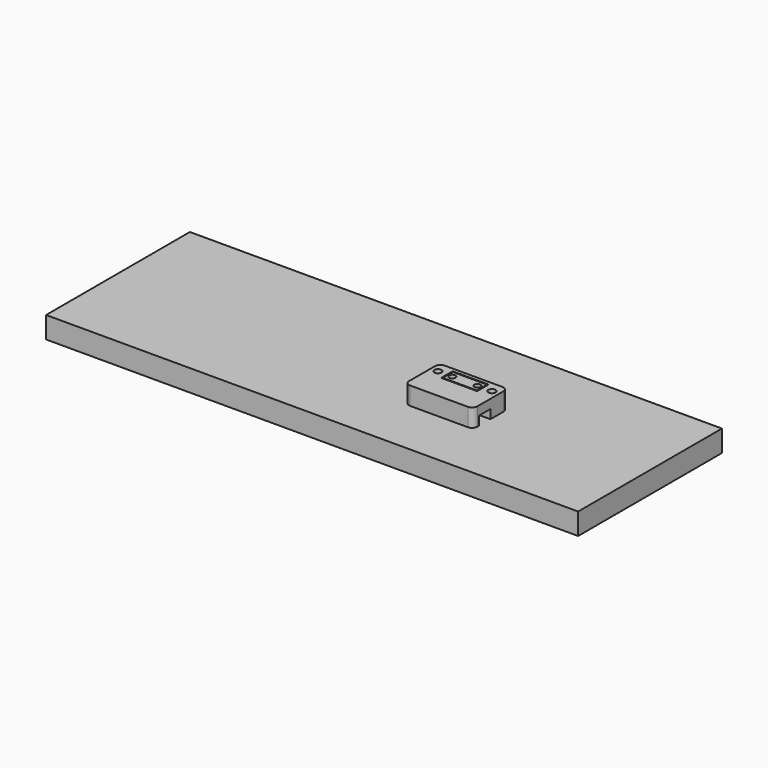
from build123d import *

# Parameters (mm, degrees)
F0_W     = 296
F0_H     = 100
F0_R     = 1.5
F1_DEPTH = 12
F2_R     = 2
F2_R_2   = 1.75
F3_DEPTH = 5
F4_R     = 2
F4_W     = 20
F4_H     = 8
F5_DEPTH = 5
F7_START = 1
F6_W     = 19
F6_H     = 7
F6_R     = 1.75
F7_DEPTH = 4
F8_W     = 7
F8_H     = 1.5
F9_DEPTH = 3


with BuildPart() as f1:
    # F0 (on Top) → F1 (new body)
    with BuildSketch(Plane.XY):
        Rectangle(F0_W, F0_H)
        with Locations((30, 0)):
            Circle(F0_R, mode=Mode.SUBTRACT)
        with Locations((60, 0)):
            Circle(F0_R, mode=Mode.SUBTRACT)
    extrude(amount=F1_DEPTH)


with BuildPart() as f3:
    # F2 (on face) → F3 (new body)
    with BuildSketch(Plane.XY.offset(12)):
        with BuildLine():
            Line((41, 6), (29, 6))
            ThreePointArc((29, 6), (26.8786796564, 5.1213203436), (26, 3))
            Line((26, 3), (26, -6))
            Line((26, -6), (41, -6))
            Line((41, -6), (41, 6))
        make_face()
        with Locations((30, 0)):
            Circle(F2_R, mode=Mode.SUBTRACT)
        with Locations((38, 0)):
            Circle(F2_R_2, mode=Mode.SUBTRACT)
    extrude(amount=F3_DEPTH)



with BuildPart() as f3b:
    # F2 (on face) → F3, piece 2 (new body)
    with BuildSketch(Plane.XY.offset(12)):
        with BuildLine():
            ThreePointArc((26, -15), (26.8786796564, -17.1213203436), (29, -18))
            Line((29, -18), (61, -18))
            ThreePointArc((61, -18), (63.1213203436, -17.1213203436), (64, -15))
            Line((64, -15), (64, -14))
            Line((64, -14), (26, -14))
            Line((26, -14), (26, -15))
        make_face()
    extrude(amount=F3_DEPTH)


with BuildPart() as f3c:
    # F2 (on face) → F3, piece 3 (new body)
    with BuildSketch(Plane.XY.offset(12)):
        with BuildLine():
            Line((64, -6), (64, 3))
            ThreePointArc((64, 3), (63.1213203436, 5.1213203436), (61, 6))
            Line((61, 6), (49, 6))
            Line((49, 6), (49, -6))
            Line((49, -6), (64, -6))
        make_face()
        with Locations((52, 0)):
            Circle(F2_R_2, mode=Mode.SUBTRACT)
        with Locations((60, 0)):
            Circle(F2_R, mode=Mode.SUBTRACT)
    extrude(amount=F3_DEPTH)


with BuildPart() as f3_1:
    add(f3.part)

    add(f3b.part)  # F5 merges F3b

    add(f3c.part)  # F5 merges F3c
    # F4 (on face) → F5 (join)
    with BuildSketch(Plane.XY.offset(17)):
        with BuildLine():
            Line((29, -18), (61, -18))
            ThreePointArc((61, -18), (63.1213203436, -17.1213203436), (64, -15))
            Line((64, -15), (64, 3))
            ThreePointArc((64, 3), (63.1213203436, 5.1213203436), (61, 6))
            Line((61, 6), (29, 6))
            ThreePointArc((29, 6), (26.8786796564, 5.1213203436), (26, 3))
            Line((26, 3), (26, -15))
            ThreePointArc((26, -15), (26.8786796564, -17.1213203436), (29, -18))
        make_face()
        with Locations((30, 0)):
            Circle(F4_R, mode=Mode.SUBTRACT)
        with Locations((45, 0)):
            Rectangle(F4_W, F4_H, mode=Mode.SUBTRACT)
        with Locations((60, 0)):
            Circle(F4_R, mode=Mode.SUBTRACT)
    extrude(amount=F5_DEPTH)


with BuildPart() as f7:
    # F6 (on face) → F7 (new body)
    with BuildSketch(Plane.XY.offset(17).offset(F7_START)):
        with Locations((45, 0)):
            Rectangle(F6_W, F6_H)
        with Locations((38, 0)):
            Circle(F6_R, mode=Mode.SUBTRACT)
        with Locations((52, 0)):
            Circle(F6_R, mode=Mode.SUBTRACT)
    extrude(amount=F7_DEPTH)

    # F8 (on face) → F9 (join)
    with BuildSketch(Plane(origin=(0, 0, 18), x_dir=(1, 0, 0), z_dir=(0, 0, -1))):
        with Locations((45, 1.75)):
            Rectangle(F8_W, F8_H)
        with Locations((45, -1.75)):
            Rectangle(F8_W, F8_H)
    extrude(amount=F9_DEPTH)


solid = Compound([f1.part, f3_1.part, f7.part])
